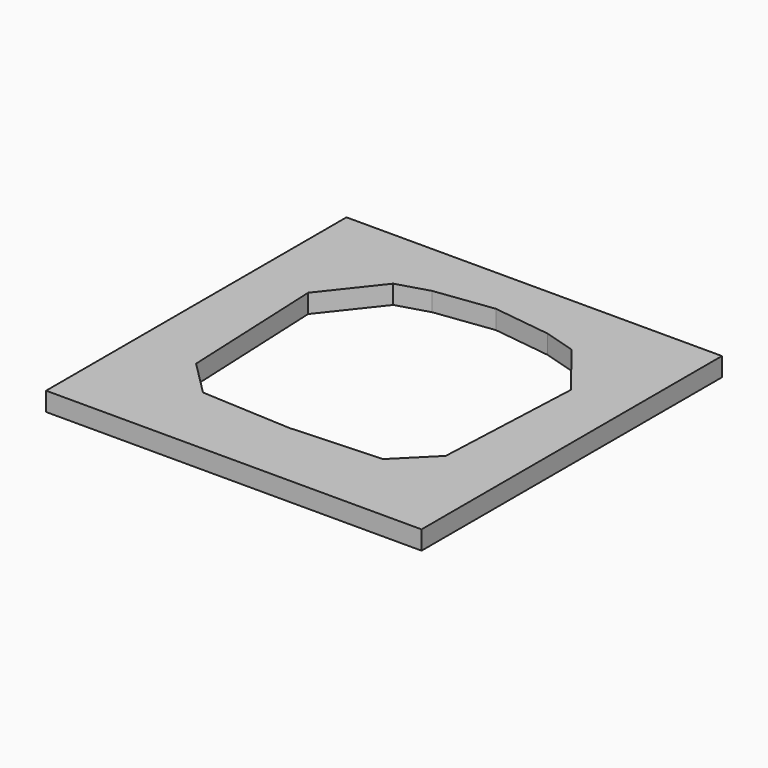
from build123d import *

# Parameters (mm, degrees)
F1_DEPTH = 2


with BuildPart() as f1:
    # F0 (on Top) → F1 (new body)
    with BuildSketch(Plane.XY):
        Polygon((-20, -7.397476), (0, -7.397476), (20, -7.397476), (20, 32.602524), (0, 32.602524), (-20, 32.602524), align=None)
        Polygon((6.15, 26.7), (9.5, 25.7), (14, 20), (13.3, 4.2), (9.6, 0.5), (0, 0), (-9.6, 0.5), (-13.3, 4.2), (-14, 20), (-9.5, 25.7), (-6.15, 26.7), (0, 27.5), align=None, mode=Mode.SUBTRACT)
    extrude(amount=F1_DEPTH)


solid = f1.part
